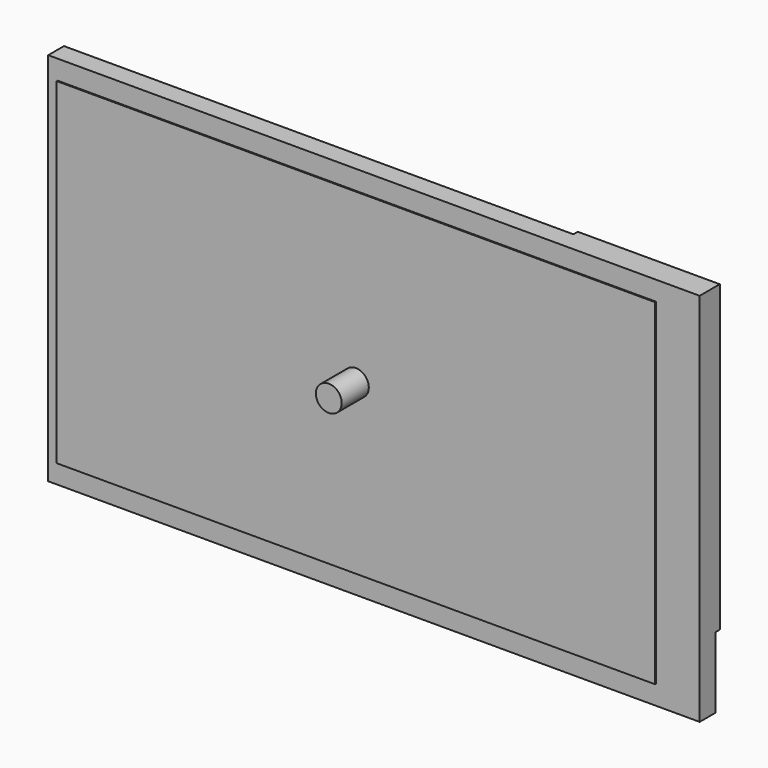
from build123d import *

# Parameters (mm, degrees)
SKETCH002_W             = 119.3
SKETCH002_H             = 68.7
PAD001_DEPTH            = 3.6
SKETCH003_W             = 109.6
SKETCH003_H             = 61.6
PAD002_DEPTH            = 0.3
SKETCH004_W             = 26
SKETCH004_H             = 55.7
PAD003_DEPTH            = 1
SKETCH006_R             = 2.365045
PAD004_DEPTH            = 10
BODY001_PLACEMENT_ANGLE = 180


with BuildPart() as part:
    # Sketch002 → Pad001 (new body)
    with BuildSketch(Plane.XZ):
        Rectangle(SKETCH002_W, SKETCH002_H)
    extrude(amount=PAD001_DEPTH)

    # Sketch003 → Pad002 (join)
    with BuildSketch(Plane.XZ.offset(3.5)):
        with Locations((3.15, 0)):
            Rectangle(SKETCH003_W, SKETCH003_H)
    extrude(amount=PAD002_DEPTH)

    # Sketch004 → Pad003 (join)
    with BuildSketch(Plane.XZ.offset(-1)):
        with Locations((-46.65, -6.5)):
            Rectangle(SKETCH004_W, SKETCH004_H)
    extrude(amount=PAD003_DEPTH)

    # Sketch006 → Pad004 (join)
    with BuildSketch(Plane.XZ):
        with Locations((3.15, 0)):
            Circle(SKETCH006_R)
    extrude(amount=PAD004_DEPTH)


with BuildPart() as part_1:
    # Body001 placement: moved
    add(part.part.moved(Location((3, -5, 41))).rotate(Axis((3, -5, 41), (0, 1, 0)), BODY001_PLACEMENT_ANGLE))


solid = part_1.part
